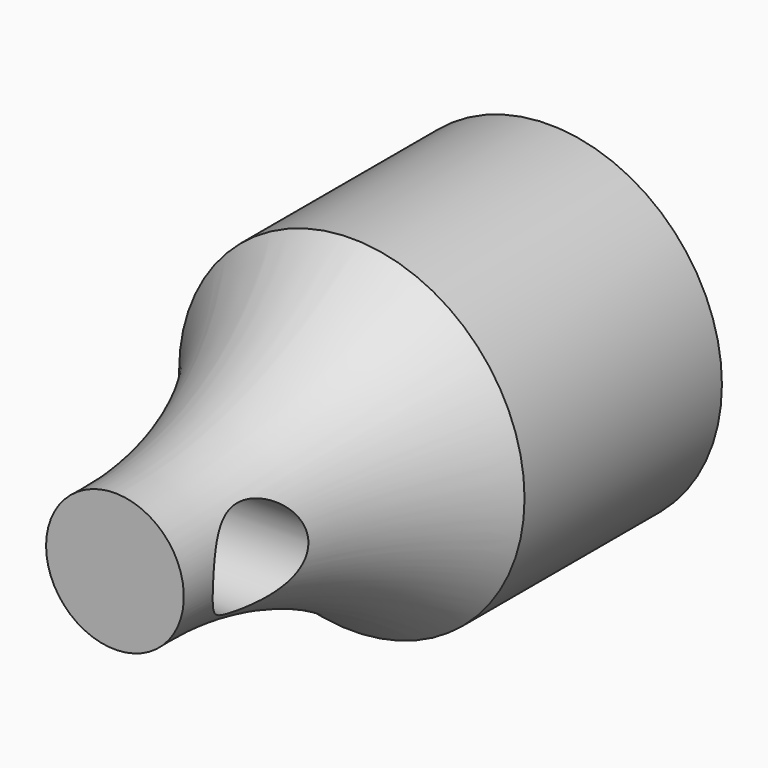
from build123d import *

# Parameters (mm, degrees)
F2_R     = 2
F3_DEPTH = 25.4
F4_R     = 6.5
F5_DEPTH = 9


with BuildPart() as f1:
    # F0 (on Top) → F1 (revolve)
    with BuildSketch(Plane.XY):
        with BuildLine():
            Line((0, -58), (0, -68))
            ThreePointArc((0, -68), (3.242526, -73.600747), (4.207879, -80))
            Line((4.207879, -80), (7, -80))
            Line((7, -80), (7, -58))
            Line((7, -58), (0, -58))
        make_face()
    revolve(axis=Axis((7, -68.5, 0), (0, 1, 0)))

    # F2 (on Right) → F3 (cut)
    with BuildSketch(Plane.YZ):
        with Locations((-76.524546, -0.129668)):
            Circle(F2_R)
    extrude(amount=F3_DEPTH, mode=Mode.SUBTRACT)

    # F4 (on face) → F5 (cut)
    with BuildSketch(Plane(origin=(0, -58, 0), x_dir=(-1, 0, 0), z_dir=(0, 1, 0))):
        with Locations((-7, 0)):
            Circle(F4_R)
    extrude(amount=-F5_DEPTH, mode=Mode.SUBTRACT)


solid = f1.part
